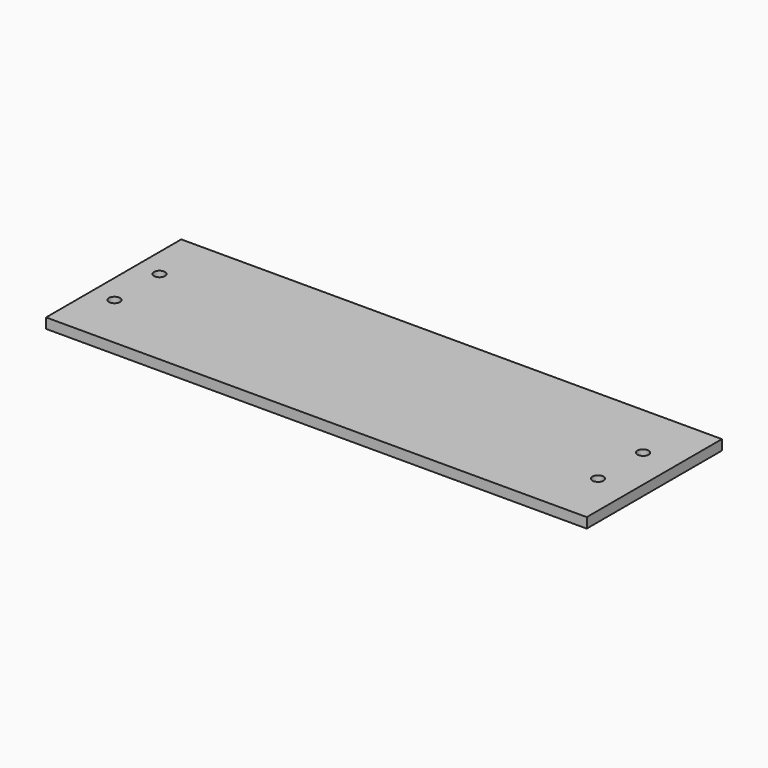
from build123d import *

# Parameters (mm, degrees)
SKETCH001_W           = 50
SKETCH001_H           = 16.9
PAD_DEPTH             = 3
SKETCH002_W           = 50
SKETCH002_H           = 50
PAD001_DEPTH          = 3
SKETCH003_W           = 50
SKETCH003_H           = 20
PAD002_DEPTH          = 3
SKETCH004_W           = 50
SKETCH004_H           = 53.1
PAD003_DEPTH          = 3
SKETCH005_W           = 50
SKETCH005_H           = 20
PAD004_DEPTH          = 3
SKETCH006_R           = 1.65
POCKET_DEPTH          = 3.001
SKETCH_R              = 1.65
POCKET001_DEPTH       = 0.001
POCKET001_DEPTH_BACK  = 3.001
CLONE_PLACEMENT_ANGLE = 90


with BuildPart() as part:
    # Sketch001 → Pad (new body)
    with BuildSketch(Plane.XY):
        with Locations((25, 8.45)):
            Rectangle(SKETCH001_W, SKETCH001_H)
    extrude(amount=PAD_DEPTH)

    # Sketch002 → Pad001 (join)
    with BuildSketch(Plane(origin=(0, 16.9, 0), x_dir=(1, 0, 0), z_dir=(0, 0, 1))):
        with Locations((25, 25)):
            Rectangle(SKETCH002_W, SKETCH002_H)
    extrude(amount=PAD001_DEPTH)

    # Sketch003 → Pad002 (join)
    with BuildSketch(Plane(origin=(0, 66.9, 0), x_dir=(1, 0, 0), z_dir=(0, 0, 1))):
        with Locations((25, 10)):
            Rectangle(SKETCH003_W, SKETCH003_H)
    extrude(amount=PAD002_DEPTH)

    # Sketch004 → Pad003 (join)
    with BuildSketch(Plane(origin=(0, 86.9, 0), x_dir=(1, 0, 0), z_dir=(0, 0, 1))):
        with Locations((25, 26.55)):
            Rectangle(SKETCH004_W, SKETCH004_H)
    extrude(amount=PAD003_DEPTH)

    # Sketch005 → Pad004 (join)
    with BuildSketch(Plane(origin=(0, 140, 0), x_dir=(1, 0, 0), z_dir=(0, 0, 1))):
        with Locations((25, 10)):
            Rectangle(SKETCH005_W, SKETCH005_H)
    extrude(amount=PAD004_DEPTH)

    # Sketch006 → Pocket (cut, through all)
    with BuildSketch(Plane.XY):
        with Locations((16.666667, 6.9)):
            Circle(SKETCH006_R)
        with Locations((33.333333, 6.9)):
            Circle(SKETCH006_R)
    extrude(amount=POCKET_DEPTH, mode=Mode.SUBTRACT)

    # Sketch → Pocket001 (cut, two sides)
    with BuildSketch(Plane(origin=(0, 140, 0), x_dir=(1, 0, 0), z_dir=(0, 0, 1))) as pocket001_sk:
        with Locations((16.666667, 10)):
            Circle(SKETCH_R)
        with Locations((33.333333, 10)):
            Circle(SKETCH_R)
    extrude(amount=-POCKET001_DEPTH, mode=Mode.SUBTRACT)
    extrude(pocket001_sk.sketch, amount=POCKET001_DEPTH_BACK, mode=Mode.SUBTRACT)


with BuildPart() as part_1:
    # Clone placement: moved
    add(part.part.moved(Location((0, 50, -3))).rotate(Axis((0, 50, -3), (0, 0, -1)), CLONE_PLACEMENT_ANGLE))


solid = part_1.part
